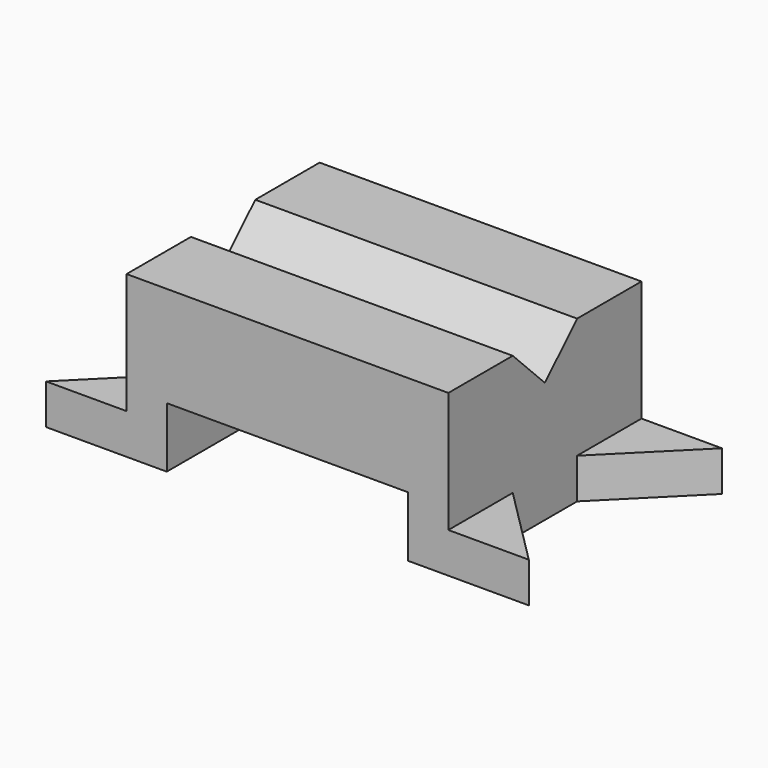
from build123d import *

# Parameters (mm, degrees)
F1_DEPTH = 76.2
F3_DEPTH = 25.4
F5_DEPTH = 25.4
F7_DEPTH = 101.6


with BuildPart() as f1:
    # F0 (on Front) → F1 (new body)
    with BuildSketch(Plane.XZ):
        Polygon((0, 12.7), (0, 0), (38.1, 0), (38.1, 19.05), (114.3, 19.05), (114.3, 0), (152.4, 0), (152.4, 12.7), (127, 12.7), (127, 50.8), (25.4, 50.8), (25.4, 12.7), align=None)
    extrude(amount=F1_DEPTH)

    # F2 (on face) → F3 (cut)
    with BuildSketch(Plane.XY.offset(12.7)):
        Polygon((127, -25.4), (127, -50.8), (152.4, -76.2), (152.4, 0), align=None)
    extrude(amount=-F3_DEPTH, mode=Mode.SUBTRACT)

    # F4 (on face) → F5 (cut)
    with BuildSketch(Plane.XY.offset(12.7)):
        Polygon((0, -76.2), (25.4, -50.8), (25.4, -25.4), (0, 0), align=None)
    extrude(amount=-F5_DEPTH, mode=Mode.SUBTRACT)

    # F6 (on face) → F7 (cut)
    with BuildSketch(Plane.YZ.offset(127)):
        Polygon((-25.4, 50.8), (-50.8, 50.8), (-38.1, 38.1), align=None)
    extrude(amount=-F7_DEPTH, mode=Mode.SUBTRACT)


solid = f1.part
